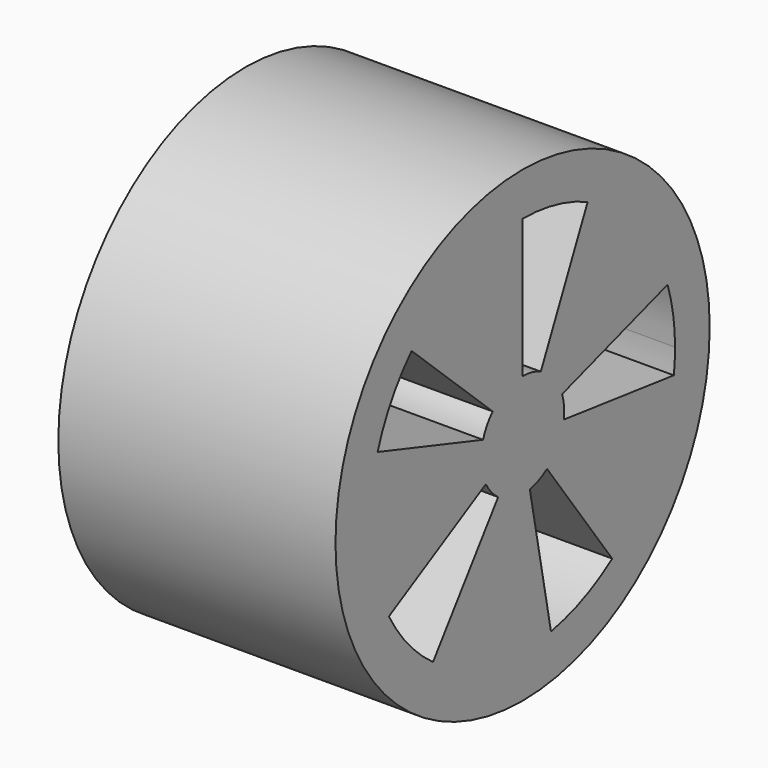
from build123d import *

# Parameters (mm, degrees)
F0_R     = 6.75
F1_DEPTH = 8
F3_DEPTH = 8.001


with BuildPart() as f1:
    # F0 (on Right) → F1 (new body)
    with BuildSketch(Plane.YZ):
        Circle(F0_R)
    extrude(amount=F1_DEPTH)

    # F2 (on face) → F3 (cut, through all)
    with BuildSketch(Plane.YZ.offset(8)):
        with BuildLine():
            Line((-1.079152, 1.04184), (-4.004686, 3.769945))
            ThreePointArc((-4.004686, 3.769945), (-4.732356, 2.802643), (-5.230811, 1.699593))
            Line((-5.230811, 1.699593), (-1.426585, 0.463525))
            ThreePointArc((-1.426585, 0.463525), (-1.285804, 0.772469), (-1.079152, 1.04184))
        make_face()
        with BuildLine():
            Line((0.657373, 1.348281), (2.347915, 4.97366))
            ThreePointArc((2.347915, 4.97366), (1.203094, 5.366802), (0, 5.5))
            Line((0, 5.5), (0, 1.5))
            ThreePointArc((0, 1.5), (0.337327, 1.461578), (0.657373, 1.348281))
        make_face()
        with BuildLine():
            ThreePointArc((5.455777, -0.696055), (5.488933, -0.348729), (5.5, 0))
            ThreePointArc((5.5, 0), (5.432286, 0.86039), (5.230811, 1.699593))
            Line((5.230811, 1.699593), (1.426585, 0.463525))
            ThreePointArc((1.426585, 0.463525), (1.481533, 0.234652), (1.5, 0))
            ThreePointArc((1.5, 0), (1.496353, -0.104533), (1.485431, -0.208557))
            Line((1.485431, -0.208557), (5.455777, -0.696055))
        make_face()
        with BuildLine():
            ThreePointArc((1.023941, -5.403845), (2.181204, -5.048995), (3.232819, -4.449593))
            Line((3.232819, -4.449593), (0.881678, -1.213525))
            ThreePointArc((0.881678, -1.213525), (0.586191, -1.380717), (0.260674, -1.477176))
            Line((0.260674, -1.477176), (1.023941, -5.403845))
        make_face()
        with BuildLine():
            ThreePointArc((-4.822947, -2.643706), (-4.127851, -3.634673), (-3.232819, -4.449593))
            Line((-3.232819, -4.449593), (-0.881678, -1.213525))
            ThreePointArc((-0.881678, -1.213525), (-1.131997, -0.984166), (-1.324325, -0.704388))
            Line((-1.324325, -0.704388), (-4.822947, -2.643706))
        make_face()
    extrude(amount=-F3_DEPTH, mode=Mode.SUBTRACT)


solid = f1.part
